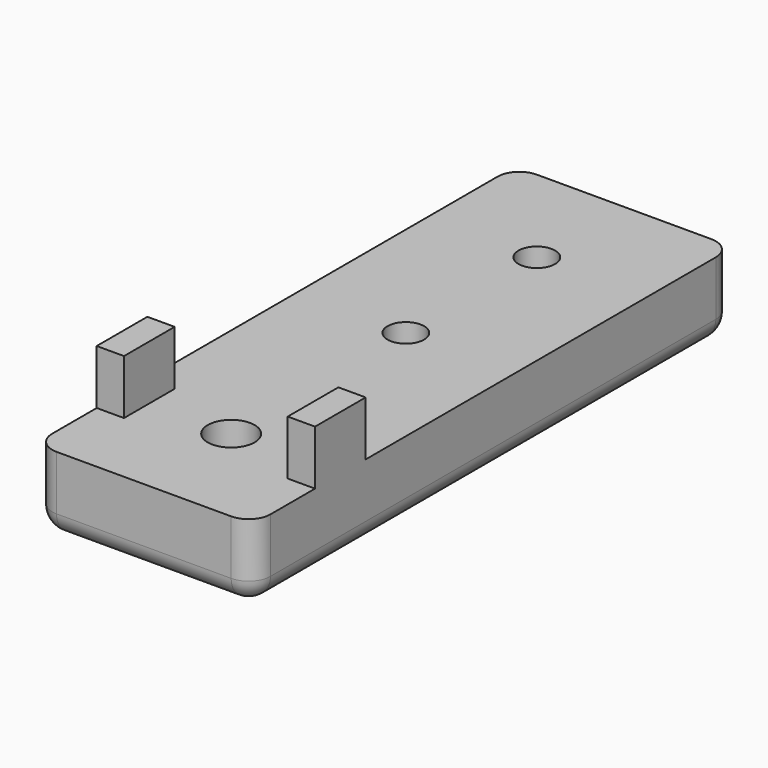
from build123d import *

# Parameters (mm, degrees)
F0_R     = 2.15
F0_R_2   = 1.675
F0_W     = 2.5
F0_H     = 5.8
F1_DEPTH = 7
F2_DEPTH = 12
F3_R     = 2


with BuildPart() as f1:
    # F0 (on Top) → F1 (new body)
    with BuildSketch(Plane.XY):
        Polygon((-10, 7.1), (-10, 0), (10, 0), (10, 7.1), (7.5, 7.1), (7.5, 12.9), (10, 12.9), (10, 55), (-10, 55), (-10, 12.9), (-7.5, 12.9), (-7.5, 7.1), align=None)
        with Locations((0, 10)):
            Circle(F0_R, mode=Mode.SUBTRACT)
        with Locations((0, 30)):
            Circle(F0_R_2, mode=Mode.SUBTRACT)
        with Locations((0, 45)):
            Circle(F0_R_2, mode=Mode.SUBTRACT)
        with Locations((-8.75, 10)):
            Rectangle(F0_W, F0_H)
        with Locations((8.75, 10)):
            Rectangle(F0_W, F0_H)
    extrude(amount=F1_DEPTH)

    # F0 (on Top) → F2 (join)
    with BuildSketch(Plane.XY):
        with Locations((-8.75, 10)):
            Rectangle(F0_W, F0_H)
        with Locations((8.75, 10)):
            Rectangle(F0_W, F0_H)
    extrude(amount=F2_DEPTH)

    # F3
    f3_edges = [f1.edges().sort_by_distance(p)[0] for p in [
        (10, 0, 3.5),
        (-10, 0, 3.5),
        (10, 55, 3.5),
        (-10, 55, 3.5),
        (10, 27.5, 0),
        (0, 0, 0),
        (-10, 27.5, 0),
        (0, 55, 0),
    ]]
    fillet(f3_edges, radius=F3_R)


solid = f1.part
